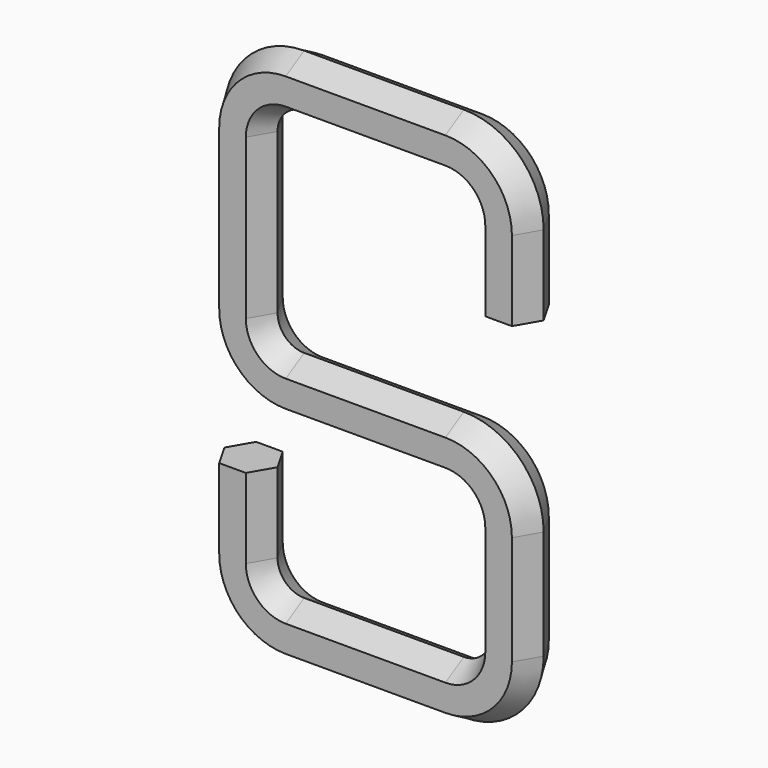
from build123d import *


with BuildPart() as f2:
    # F2: sweep along a path in F0
    with BuildLine(Plane.XZ) as f2_path:
        Line((0, 0), (0, 30))
        ThreePointArc((0, 30), (-5.857864, 44.142136), (-20, 50))
        Line((-20, 50), (-80, 50))
        ThreePointArc((-80, 50), (-94.142136, 44.142136), (-100, 30))
        Line((-100, 30), (-100, -30))
        ThreePointArc((-100, -30), (-94.142136, -44.142136), (-80, -50))
        Line((-80, -50), (-20, -50))
        ThreePointArc((-20, -50), (-5.857864, -55.857864), (0, -70))
        Line((0, -70), (0, -111.08109))
        ThreePointArc((0, -111.08109), (-5.857864, -125.223226), (-20, -131.08109))
        Line((-20, -131.08109), (-80, -131.08109))
        ThreePointArc((-80, -131.08109), (-94.142136, -125.223226), (-100, -111.08109))
        Line((-100, -111.08109), (-100, -81.08109))
    # F1 (on Top) → F2 (sweep)
    with BuildSketch(Plane.XY):
        Polygon((5, 8.660254), (-5, 8.660254), (-10, 0), (-5, -8.660254), (5, -8.660254), (10, 0), align=None)
    sweep(path=f2_path.line)


solid = f2.part
